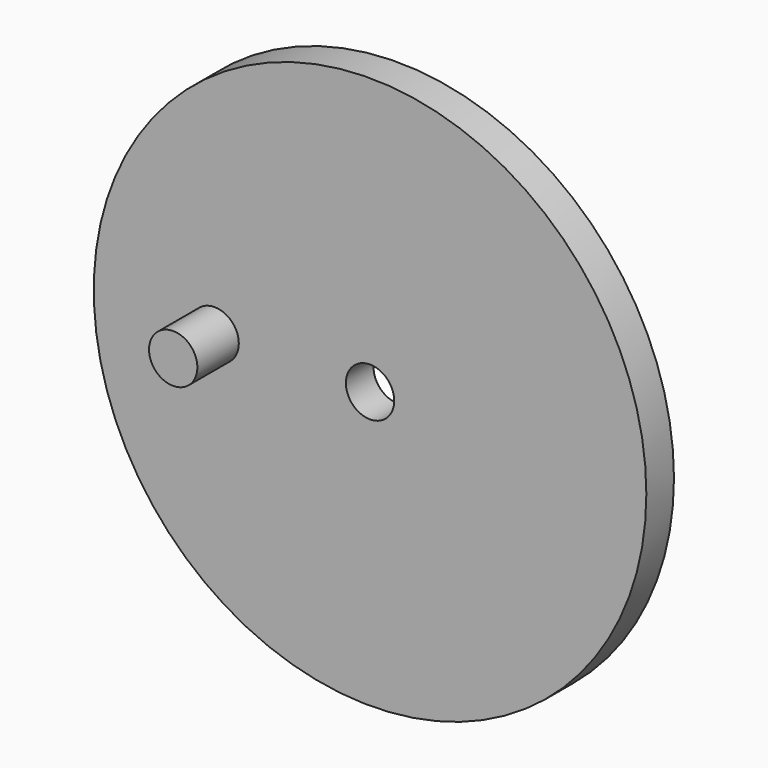
from build123d import *

# Parameters (mm, degrees)
F0_R     = 80
F0_R_2   = 7
F1_DEPTH = 10
F2_R     = 7
F3_DEPTH = 25


with BuildPart() as f1:
    # F0 (on Front) → F1 (new body)
    with BuildSketch(Plane.XZ):
        Circle(F0_R)
        Circle(F0_R_2, mode=Mode.SUBTRACT)
    extrude(amount=F1_DEPTH)

    # F2 (on Front) → F3 (join)
    with BuildSketch(Plane.XZ):
        with Locations((-45, 0)):
            Circle(F2_R)
    extrude(amount=F3_DEPTH)


solid = f1.part
